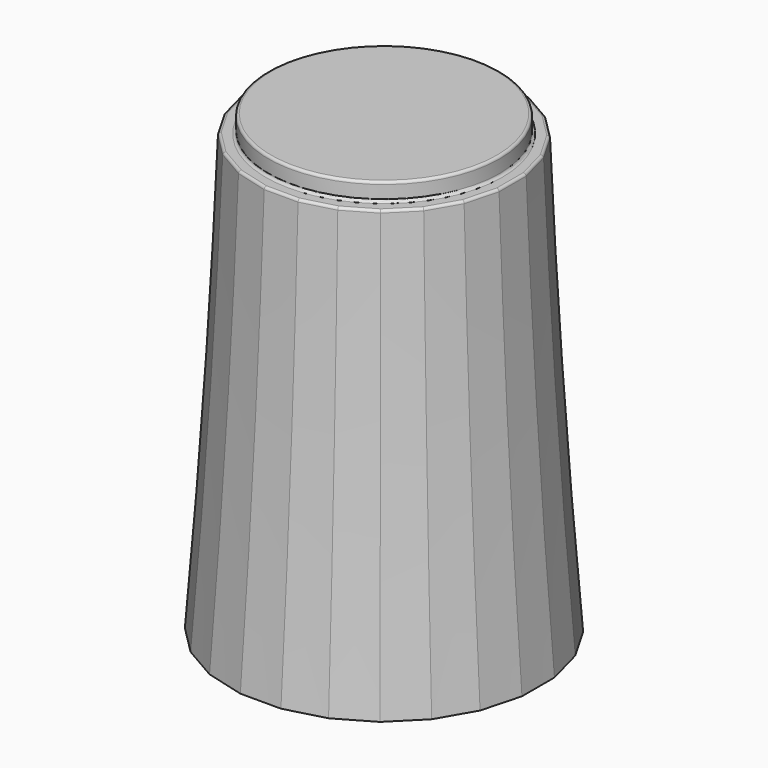
from build123d import *

# Parameters (mm, degrees)
SKETCH035_R     = 4.5
PAD008_DEPTH    = 0.7
SKETCH034_R     = 5
POCKET013_DEPTH = 1
SKETCH032_R     = 4.65
POCKET012_DEPTH = 1
POCKET014_DEPTH = 8
CHAMFER008_SIZE = 1.4
CHAMFER009_SIZE = 0.3
FILLET004_R     = 0.1


with BuildPart() as part:
    # Sketch041 → AdditiveLoft006 section 0
    with BuildSketch(Plane.XY):
        Polygon((-0.789915, 6), (-2.315914, 5.59111), (-3.684086, 4.801195), (-4.801195, 3.684086), (-5.59111, 2.315914), (-6, 0.789915), (-6, -0.789915), (-5.59111, -2.315914), (-4.801195, -3.684086), (-3.684086, -4.801195), (-2.315914, -5.59111), (-0.789915, -6), (0.789915, -6), (2.315914, -5.59111), (3.684086, -4.801195), (4.801195, -3.684086), (5.59111, -2.315914), (6, -0.789915), (6, 0.789915), (5.59111, 2.315914), (4.801195, 3.684086), (3.684086, 4.801195), (2.315914, 5.59111), (0.789915, 6), align=None)
    # Sketch036 → AdditiveLoft006 section 1
    with BuildSketch(Plane.XY.offset(7)):
        Polygon((-0.724089, 5.5), (-2.122921, 5.125184), (-3.377079, 4.401095), (-4.401095, 3.377079), (-5.125184, 2.122921), (-5.5, 0.724089), (-5.5, -0.724089), (-5.125184, -2.122921), (-4.401095, -3.377079), (-3.377079, -4.401095), (-2.122921, -5.125184), (-0.724089, -5.5), (0.724089, -5.5), (2.122921, -5.125184), (3.377079, -4.401095), (4.401095, -3.377079), (5.125184, -2.122921), (5.5, -0.724089), (5.5, 0.724089), (5.125184, 2.122921), (4.401095, 3.377079), (3.377079, 4.401095), (2.122921, 5.125184), (0.724089, 5.5), align=None)
    # Sketch042 → AdditiveLoft006 section 2
    with BuildSketch(Plane.XY.offset(17)):
        Polygon((-4.659258, 1.929928), (-5, 0.658262), (-5, -0.658262), (-4.659258, -1.929928), (-4.000996, -3.070072), (-3.070072, -4.000996), (-1.929928, -4.659258), (-0.658262, -5), (0.658262, -5), (1.929928, -4.659258), (3.070072, -4.000996), (4.000996, -3.070072), (4.659258, -1.929928), (5, -0.658262), (5, 0.658262), (4.659258, 1.929928), (4.000996, 3.070072), (3.070072, 4.000996), (1.929928, 4.659258), (0.658262, 5), (-0.658262, 5), (-1.929928, 4.659258), (-3.070072, 4.000996), (-4.000996, 3.070072), align=None)
    loft()

    # Sketch035 (on Face3 of AdditiveLoft006) → Pad008 (new body)
    with BuildSketch(Plane.XY.offset(17)):
        Circle(SKETCH035_R)
    extrude(amount=PAD008_DEPTH)

    # Sketch034 (on Face1 of Pad008) → Pocket013 (cut)
    with BuildSketch(Plane(origin=(0, 0, 0), x_dir=(1, 0, 0), z_dir=(0, 0, -1))):
        Circle(SKETCH034_R)
    extrude(amount=-POCKET013_DEPTH, mode=Mode.SUBTRACT)

    # Sketch032 (on Face28 of Pocket013) → Pocket012 (cut)
    with BuildSketch(Plane(origin=(0, 0, 1), x_dir=(1, 0, 0), z_dir=(0, 0, -1))):
        Circle(SKETCH032_R)
    extrude(amount=-POCKET012_DEPTH, mode=Mode.SUBTRACT)

    # Sketch033 (on Face32 of Pocket012) → Pocket014 (cut)
    with BuildSketch(Plane(origin=(0, 0, 2), x_dir=(1, 0, 0), z_dir=(0, 0, -1))):
        with BuildLine():
            ThreePointArc((-1.741757, 2.442598), (0, -3), (1.741757, 2.442598))
            Line((-1.741757, 2.442598), (1.741757, 2.442598))
        make_face()
    extrude(amount=-POCKET014_DEPTH, mode=Mode.SUBTRACT)

    # Chamfer008
    chamfer008_edges = [part.edges().sort_by_distance(p)[0] for p in [
        (0, 3, 2),
        (0, -2.442598, 2),
    ]]
    chamfer(chamfer008_edges, length=CHAMFER008_SIZE)

    # Chamfer009
    chamfer009_edges = [part.edges().sort_by_distance(p)[0] for p in [
        (-4.65, 0, 1),
    ]]
    chamfer(chamfer009_edges, length=CHAMFER009_SIZE)

    # Fillet004
    fillet004_edges = [part.edges().sort_by_distance(p)[0] for p in [
        (-4.5, 0, 17.7),
        (-4.829629, 1.294095, 17),
        (-4.330127, 2.5, 17),
        (-5, 0, 17),
        (-3.535534, 3.535534, 17),
        (-4.829629, -1.294095, 17),
        (-2.5, 4.330127, 17),
        (-4.330127, -2.5, 17),
        (-1.294095, 4.829629, 17),
        (-3.535534, -3.535534, 17),
        (0, 5, 17),
        (-2.5, -4.330127, 17),
        (1.294095, 4.829629, 17),
        (-1.294095, -4.829629, 17),
        (2.5, 4.330127, 17),
        (0, -5, 17),
        (3.535534, 3.535534, 17),
        (1.294095, -4.829629, 17),
        (4.330127, 2.5, 17),
        (2.5, -4.330127, 17),
        (4.829629, 1.294095, 17),
        (3.535534, -3.535534, 17),
        (5, 0, 17),
        (4.330127, -2.5, 17),
        (4.829629, -1.294095, 17),
        (-4.5, 0, 17),
    ]]
    fillet(fillet004_edges, radius=FILLET004_R)


solid = part.part
